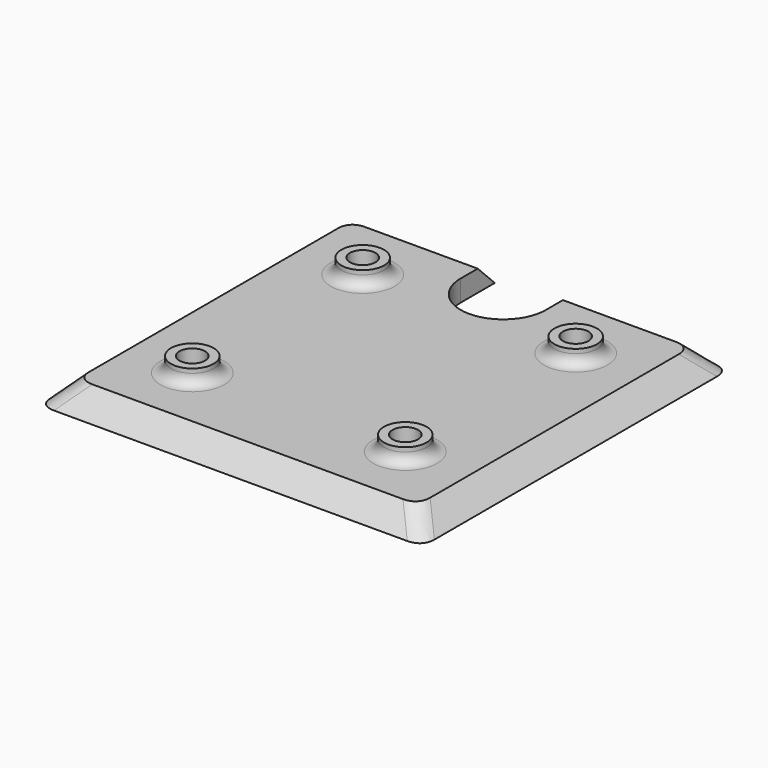
from build123d import *

# Parameters (mm, degrees)
F0_W     = 32
F0_H     = 32
F1_DEPTH = 2
F1_TAPER = -45
F2_R     = 2
F3_DEPTH = 3.4
F4_D     = 2.4
F6_DEPTH = 3.401
F7_R     = 2
F8_R     = 1


with BuildPart() as f1:
    # F0 (on Top) → F1 (new body)
    with BuildSketch(Plane.XY):
        Rectangle(F0_W, F0_H)
    extrude(amount=-F1_DEPTH, taper=F1_TAPER)

    # F2 (on face) → F3 (join)
    with BuildSketch(Plane(origin=(0, 0, -2), x_dir=(1, 0, 0), z_dir=(0, 0, -1))):
        with Locations((-10, 10)):
            Circle(F2_R)
        with Locations((10, 10)):
            Circle(F2_R)
        with Locations((10, -10)):
            Circle(F2_R)
        with Locations((-10, -10)):
            Circle(F2_R)
    extrude(amount=-F3_DEPTH)

    # F4 (through all)
    with Locations(Plane(origin=(0, 0, -2), x_dir=(1, 0, 0), z_dir=(0, 0, -1))):
        with Locations((-10, 10), (10, 10), (10, -10), (-10, -10)):
            Hole(F4_D / 2)

    # F5 (on face) → F6 (cut, through all)
    with BuildSketch(Plane(origin=(0, 0, -2), x_dir=(1, 0, 0), z_dir=(0, 0, -1))):
        with BuildLine():
            Line((-4, -14), (-4, -18))
            Line((-4, -18), (4, -18))
            Line((4, -18), (4, -14))
            ThreePointArc((4, -14), (0, -10), (-4, -14))
        make_face()
    extrude(amount=-F6_DEPTH, mode=Mode.SUBTRACT)

    # F7
    f7_edges = [f1.edges().sort_by_distance(p)[0] for p in [
        (-17, -17, -1),
        (17, -17, -1),
        (17, 17, -1),
        (-17, 17, -1),
    ]]
    fillet(f7_edges, radius=F7_R)

    # F8
    f8_edges = [f1.edges().sort_by_distance(p)[0] for p in [
        (-12, 10, 0),
        (-12, -10, 0),
        (8, -10, 0),
        (8, 10, 0),
    ]]
    fillet(f8_edges, radius=F8_R)


solid = f1.part
